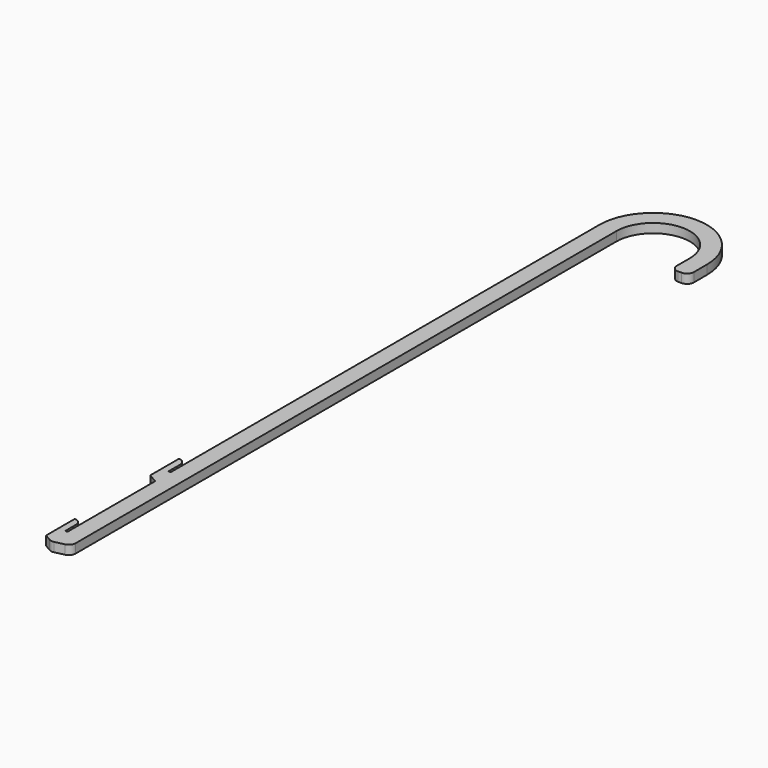
from build123d import *

# Parameters (mm, degrees)
F1_DEPTH = 2
F2_R     = 3


with BuildPart() as f1:
    # F0 (on Top) → F1 (new body, symmetric)
    with BuildSketch(Plane.XY):
        Polygon((-11.620574, -16.072596), (-12.620574, -16.072596), (-12.620574, -7.051546), (-15.638424, -7.051546), (-15.638424, -22.731839), (-11.620574, -25.051546), (-4.164226, -23.267707), (-4.164226, 274.948454), (-11.620574, 274.948454), (-11.620574, 40.386457), (-12.620574, 40.386457), (-12.620574, 49.948454), (-15.638424, 49.948454), (-15.638424, 34.268161), (-11.620574, 31.948454), align=None)
        with BuildLine():
            Line((-11.620574, 274.948454), (-4.164226, 274.948454))
            ThreePointArc((-4.164226, 274.948454), (11.92308, 291.035761), (28.010387, 274.948454))
            Line((28.010387, 274.948454), (28.010387, 264.826685))
            Line((28.010387, 264.826685), (35.466734, 264.826685))
            Line((35.466734, 264.826685), (35.466734, 274.948454))
            ThreePointArc((35.466734, 274.948454), (11.92308, 298.492108), (-11.620574, 274.948454))
        make_face()
    extrude(amount=F1_DEPTH, both=True)

    # F2
    f2_edges = [f1.edges().sort_by_distance(p)[0] for p in [
        (28.010387, 264.826685, 0),
        (35.466734, 264.826685, 0),
        (-4.164226, -23.267707, 0),
        (-11.620574, -25.051546, 0),
        (-12.620574, 49.948454, 0),
        (-12.620574, -7.051546, 0),
    ]]
    fillet(f2_edges, radius=F2_R)


solid = f1.part
